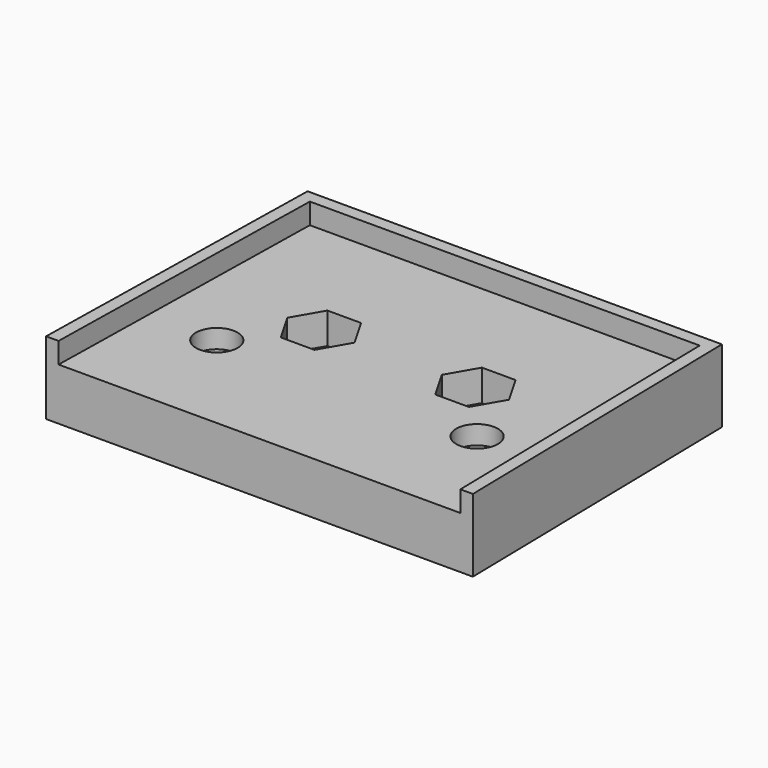
from build123d import *

# Parameters (mm, degrees)
F0_R     = 2
F0_R_2   = 1.75
F1_DEPTH = 5
F2_DEPTH = 7
F3_DEPTH = 3.2
F5_DEPTH = 3


with BuildPart() as f1:
    # F0 (on Top) → F1 (new body)
    with BuildSketch(Plane.XY):
        Polygon((14.47088, -3.462027), (16.483643, -0.024181), (14.512763, 3.437846), (10.52912, 3.462027), (8.516357, 0.024181), (10.487237, -3.437846), align=None)
        with Locations((12.5, 0)):
            Circle(F0_R, mode=Mode.SUBTRACT)
        Polygon((0, -10.5), (19.29977, -10.5), (18.723261, 18.95), (0, 18.95), (-18.723261, 18.95), (-19.29977, -10.5), align=None)
        Polygon((-14.47088, -3.462027), (-16.483643, -0.024181), (-14.512763, 3.437846), (-10.52912, 3.462027), (-8.516357, 0.024181), (-10.487237, -3.437846), align=None, mode=Mode.SUBTRACT)
        Polygon((14.512763, 3.437846), (16.483643, -0.024181), (14.47088, -3.462027), (10.487237, -3.437846), (8.516357, 0.024181), (10.52912, 3.462027), align=None, mode=Mode.SUBTRACT)
        with Locations((-7.42, 6.15)):
            Circle(F0_R_2, mode=Mode.SUBTRACT)
        with Locations((7.42, 6.15)):
            Circle(F0_R_2, mode=Mode.SUBTRACT)
        Polygon((-14.512763, 3.437846), (-16.483643, -0.024181), (-14.47088, -3.462027), (-10.487237, -3.437846), (-8.516357, 0.024181), (-10.52912, 3.462027), align=None)
        with Locations((-12.5, 0)):
            Circle(F0_R, mode=Mode.SUBTRACT)
        Polygon((14.47088, -3.462027), (16.483643, -0.024181), (14.512763, 3.437846), (10.52912, 3.462027), (8.516357, 0.024181), (10.487237, -3.437846), align=None)
        with Locations((12.5, 0)):
            Circle(F0_R, mode=Mode.SUBTRACT)
    extrude(amount=F1_DEPTH)

    # F0 (on Top) → F2 (join)
    with BuildSketch(Plane.XY):
        Polygon((19.9, 20.15), (0, 20.15), (-19.9, 20.15), (-20.5, -10.5), (-19.29977, -10.5), (-18.723261, 18.95), (0, 18.95), (18.723261, 18.95), (19.29977, -10.5), (20.5, -10.5), align=None)
    extrude(amount=F2_DEPTH)

    # F0 (on Top) → F3 (cut)
    with BuildSketch(Plane.XY):
        Polygon((14.47088, -3.462027), (16.483643, -0.024181), (14.512763, 3.437846), (10.52912, 3.462027), (8.516357, 0.024181), (10.487237, -3.437846), align=None)
        with Locations((12.5, 0)):
            Circle(F0_R, mode=Mode.SUBTRACT)
        Polygon((-14.512763, 3.437846), (-16.483643, -0.024181), (-14.47088, -3.462027), (-10.487237, -3.437846), (-8.516357, 0.024181), (-10.52912, 3.462027), align=None)
        with Locations((-12.5, 0)):
            Circle(F0_R, mode=Mode.SUBTRACT)
    extrude(amount=F3_DEPTH, mode=Mode.SUBTRACT)

    # F4 (on face) → F5 (cut)
    with BuildSketch(Plane.XY.offset(5)):
        Polygon((10.653188, 6.14902), (9.03747, 8.949517), (5.804308, 8.950513), (4.186865, 6.15101), (5.802584, 3.350513), (9.035746, 3.349518), align=None)
        Polygon((-4.186865, 6.15101), (-5.804308, 8.950513), (-9.03747, 8.949517), (-10.653188, 6.14902), (-9.035746, 3.349518), (-5.802584, 3.350513), align=None)
    extrude(amount=-F5_DEPTH, mode=Mode.SUBTRACT)


solid = f1.part
